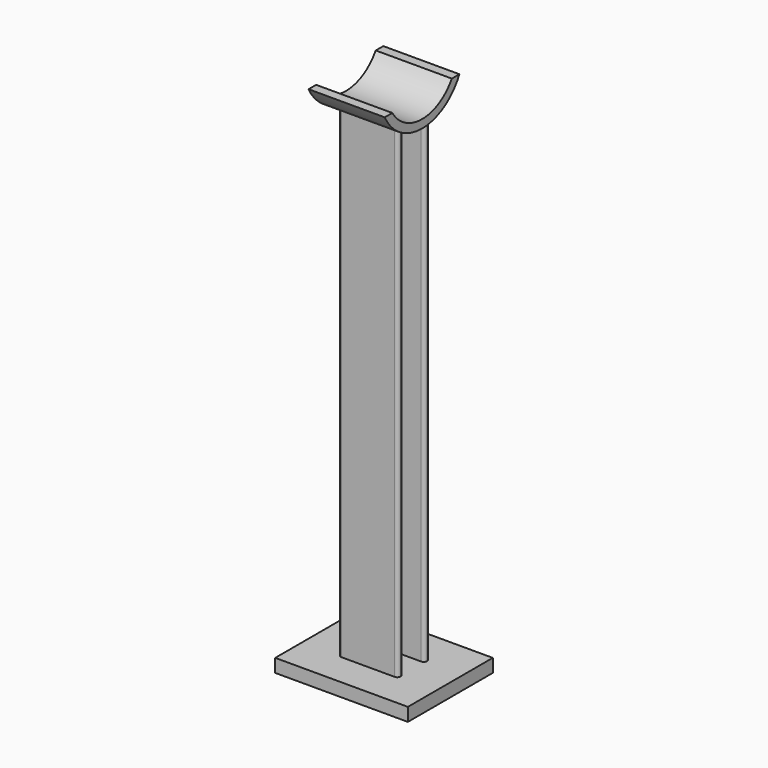
from build123d import *

# Parameters (mm, degrees)
F1_W     = 254
F1_H     = 203.2
F2_DEPTH = 25.4
F3_DEPTH = 1019.048
F5_DEPTH = 103.124
F6_DEPTH = 72.898


with BuildPart() as f2:
    # F1 (on Top) → F2 (new body)
    with BuildSketch(Plane.XY):
        Rectangle(F1_W, F1_H)
    extrude(amount=-F2_DEPTH)

    # F0 (on Top) → F3 (join)
    with BuildSketch(Plane.XY):
        with BuildLine():
            ThreePointArc((57.15, 31.75), (55.2901280605, 36.2401280605), (50.8, 38.1))
            Line((50.8, 38.1), (-50.8, 38.1))
            ThreePointArc((-50.8, 38.1), (-55.2901280605, 36.2401280605), (-57.15, 31.75))
            ThreePointArc((-57.15, 31.75), (-55.2901280605, 27.2598719395), (-50.8, 25.4))
            Line((-50.8, 25.4), (-12.7, 25.4))
            ThreePointArc((-12.7, 25.4), (-8.2098719395, 23.5401280605), (-6.35, 19.05))
            Line((-6.35, 19.05), (-6.35, -19.05))
            ThreePointArc((-6.35, -19.05), (-8.2098719395, -23.5401280605), (-12.7, -25.4))
            Line((-12.7, -25.4), (-50.8, -25.4))
            ThreePointArc((-50.8, -25.4), (-55.2901280605, -27.2598719395), (-57.15, -31.75))
            ThreePointArc((-57.15, -31.75), (-55.2901280605, -36.2401280605), (-50.8, -38.1))
            Line((-50.8, -38.1), (50.8, -38.1))
            ThreePointArc((50.8, -38.1), (55.2901280605, -36.2401280605), (57.15, -31.75))
            ThreePointArc((57.15, -31.75), (55.2901280605, -27.2598719395), (50.8, -25.4))
            Line((50.8, -25.4), (12.7, -25.4))
            ThreePointArc((12.7, -25.4), (8.2098719395, -23.5401280605), (6.35, -19.05))
            Line((6.35, -19.05), (6.35, 19.05))
            ThreePointArc((6.35, 19.05), (8.2098719395, 23.5401280605), (12.7, 25.4))
            Line((12.7, 25.4), (50.8, 25.4))
            ThreePointArc((50.8, 25.4), (55.2901280605, 27.2598719395), (57.15, 31.75))
        make_face()
    extrude(amount=F3_DEPTH)

    # F4 (on Right) → F5 (cut, symmetric)
    with BuildSketch(Plane.YZ):
        with BuildLine():
            ThreePointArc((71.2698618146, 971.2817072868), (80.8566228106, 992.7335981743), (84.1375, 1016))
            ThreePointArc((84.1375, 1016), (-23.2664018257, 1096.8566228106), (-71.2698618146, 971.2817072868))
            ThreePointArc((-71.2698618146, 971.2817072868), (0, 931.8625), (71.2698618146, 971.2817072868))
        make_face()
    extrude(amount=F5_DEPTH, both=True, mode=Mode.SUBTRACT)

    # F4 (on Right) → F6 (join, symmetric)
    with BuildSketch(Plane.YZ):
        with BuildLine():
            ThreePointArc((71.2698618146, 971.2817072868), (0, 931.8625), (-71.2698618146, 971.2817072868))
            Line((-71.2698618146, 971.2817072868), (-89.4071367489, 971.2817072868))
            ThreePointArc((-89.4071367489, 971.2817072868), (0, 916.0331964859), (89.4071367489, 971.2817072868))
            Line((89.4071367489, 971.2817072868), (71.2698618146, 971.2817072868))
        make_face()
    extrude(amount=F6_DEPTH, both=True)


solid = f2.part
